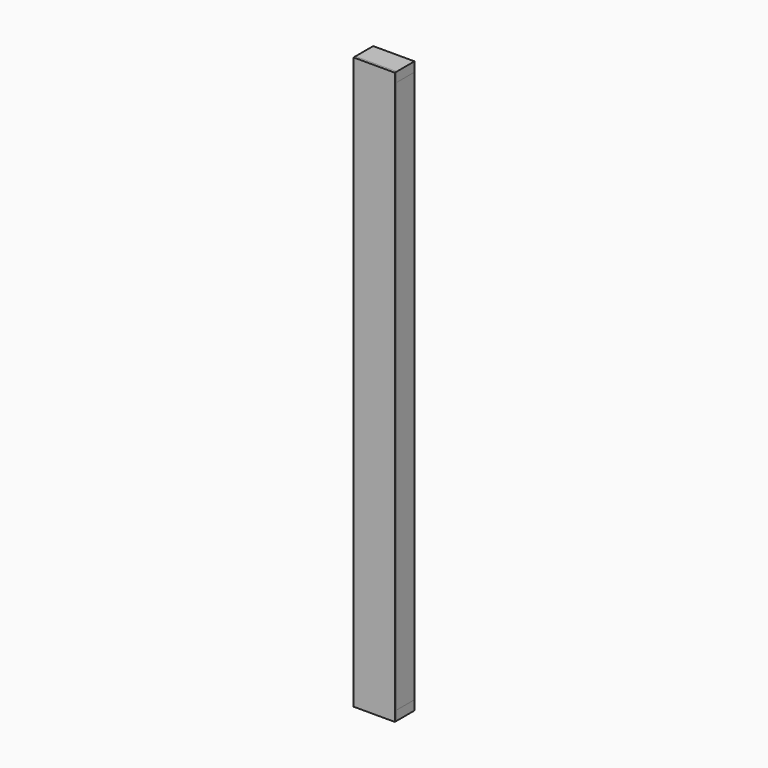
from build123d import *

# Parameters (mm, degrees)
F0_W     = 165.1
F0_H     = 88.9
F1_DEPTH = 38.1
F2_W     = 38.1
F2_H     = 88.9
F3_DEPTH = 2209.8
F4_W     = 165.1
F4_H     = 88.9
F5_DEPTH = 38.1
F6_W     = 165.1
F6_H     = 2286
F7_DEPTH = 9.525


with BuildPart() as f1:
    # F0 (on Top) → F1 (new body)
    with BuildSketch(Plane.XY):
        with Locations((82.55, -44.45)):
            Rectangle(F0_W, F0_H)
    extrude(amount=F1_DEPTH)


with BuildPart() as f3:
    # F2 (on face) → F3 (new body)
    with BuildSketch(Plane.XY.offset(38.1)):
        with Locations((19.05, -44.45)):
            Rectangle(F2_W, F2_H)
    extrude(amount=F3_DEPTH)


with BuildPart() as f3b:
    # F2 (on face) → F3, piece 2 (new body)
    with BuildSketch(Plane.XY.offset(38.1)):
        with Locations((146.05, -44.45)):
            Rectangle(F2_W, F2_H)
    extrude(amount=F3_DEPTH)


with BuildPart() as f5:
    # F4 (on face) → F5 (new body)
    with BuildSketch(Plane.XY.offset(2247.9)):
        with Locations((82.55, -44.45)):
            Rectangle(F4_W, F4_H)
    extrude(amount=F5_DEPTH)


with BuildPart() as f7:
    # F6 (on face) → F7 (new body)
    with BuildSketch(Plane.XZ.offset(88.9)):
        with Locations((82.55, 1143)):
            Rectangle(F6_W, F6_H)
    extrude(amount=F7_DEPTH)


solid = Compound([f1.part, f3.part, f3b.part, f5.part, f7.part])
